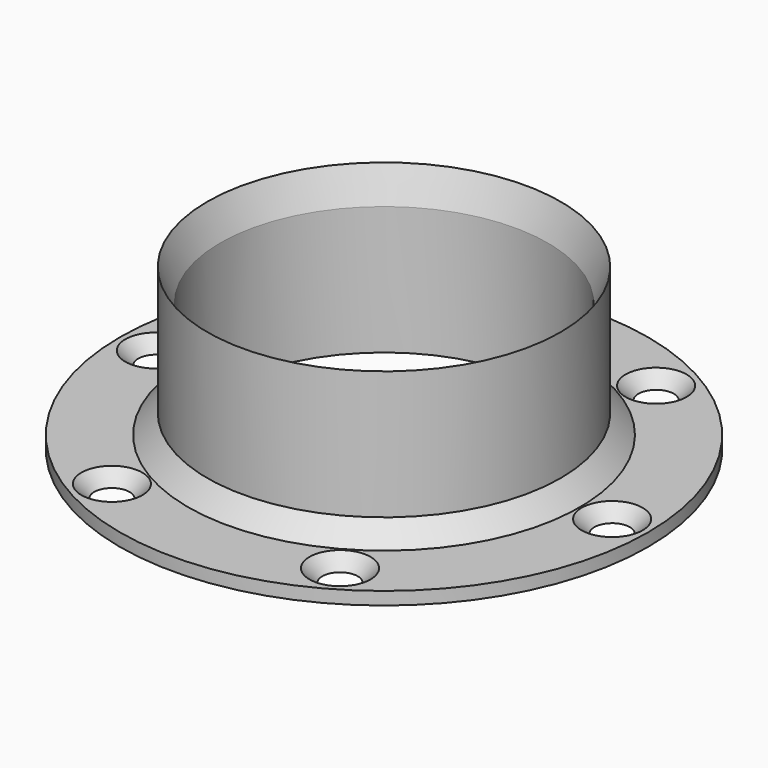
from build123d import *

# Parameters (mm, degrees)
HOLE_D             = 4.5
HOLE_DEPTH         = 25
HOLE_CSINK_D       = 9.5
HOLE_CSINK_ANGLE   = 90
POLARPATTERN_COUNT = 6
SKETCH002_W        = 110
SKETCH002_H        = 70.917771
POCKET_DEPTH       = 41.103131
POCKET_DEPTH_BACK  = -41.103131


with BuildPart() as part:
    # Sketch → Revolution (revolve)
    with BuildSketch(Plane.XZ):
        Polygon((-27.5, 18), (-27.5, 0), (-25.5, 0), (-25.5, 40), (-27.5, 45), (-27.5, 25), (-30.5, 22), (-41.102131, 22), (-41.102131, 18), align=None)
    revolve(axis=Axis((0, 0, 0), (0, 0, 1)))

    # Hole
    with Locations(Plane(origin=(0, 0, 22), x_dir=(-1, 0, 0), z_dir=(0, 0, 1))):
        with Locations((35.5, 0)):
            hole = CounterSinkHole(HOLE_D / 2, HOLE_CSINK_D / 2, depth=HOLE_DEPTH, counter_sink_angle=HOLE_CSINK_ANGLE)

    # PolarPattern: Hole ×6 about axis
    polarpattern_axis = Axis((0, 0, 22), (0, 0, 1))
    for i in range(1, POLARPATTERN_COUNT):
        add(hole.rotate(polarpattern_axis, i * 360 / POLARPATTERN_COUNT), mode=Mode.SUBTRACT)

    # Sketch002 → Pocket (cut, two sides)
    with BuildSketch(Plane.YZ) as pocket_sk:
        with Locations((0, -15.458885)):
            Rectangle(SKETCH002_W, SKETCH002_H)
    extrude(amount=-POCKET_DEPTH, mode=Mode.SUBTRACT)
    extrude(pocket_sk.sketch, amount=-POCKET_DEPTH_BACK, mode=Mode.SUBTRACT)


solid = part.part
